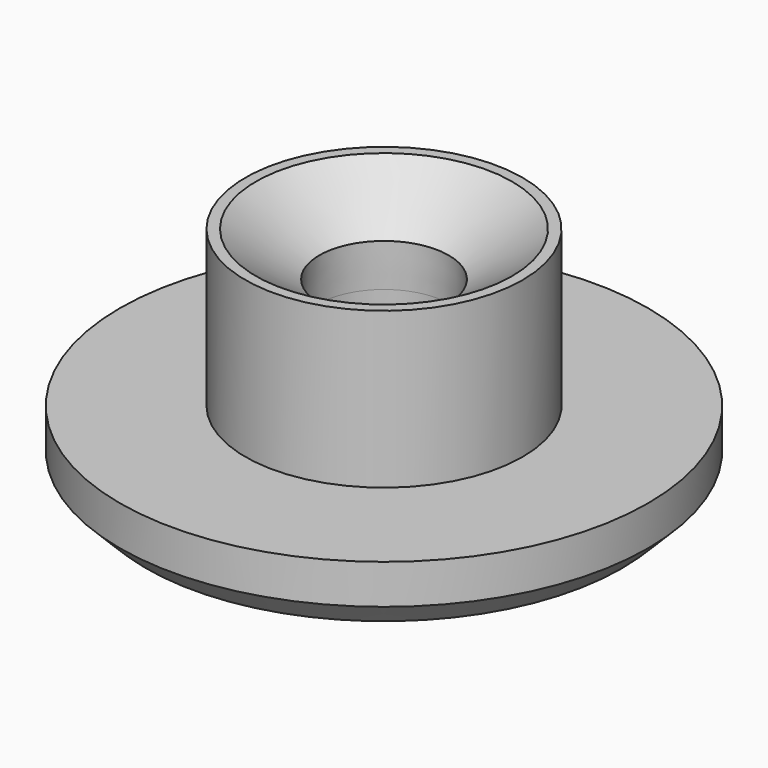
from build123d import *

# Parameters (mm, degrees)
F2_SIZE = 1


with BuildPart() as f1:
    # F0 (on Front) → F1 (revolve)
    with BuildSketch(Plane.XZ):
        Polygon((5.25, 8.394914), (4.85, 8.394914), (2.45143, 6.715417), (2.5, 5.072831), (2.65, 0), (10, 0), (10, 2.5), (5.25, 2.5), align=None)
    revolve(axis=Axis((0, 0, 3.75), (0, 0, 1)))

    # F2
    f2_edges = [f1.edges().sort_by_distance(p)[0] for p in [
        (-10, 0, 0),
    ]]
    chamfer(f2_edges, length=F2_SIZE)


solid = f1.part
